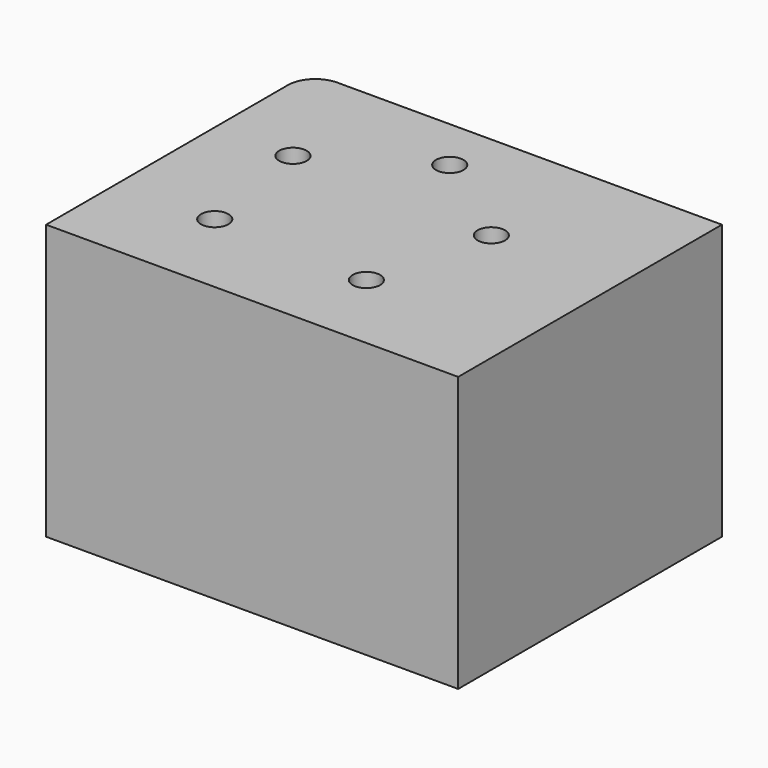
from build123d import *

# Parameters (mm, degrees)
F0_W     = 75
F0_H     = 60
F0_R     = 2.5
F1_DEPTH = 50
F2_R     = 5


with BuildPart() as f1:
    # F0 (on Top) → F1 (new body)
    with BuildSketch(Plane.XY):
        with Locations((-37.5, 30)):
            Rectangle(F0_W, F0_H)
        with Locations((-57.336632, 16.286449)):
            Circle(F0_R, mode=Mode.SUBTRACT)
        with Locations((-28.815843, 15.136253)):
            Circle(F0_R, mode=Mode.SUBTRACT)
        with Locations((-60.843214, 38.46839)):
            Circle(F0_R, mode=Mode.SUBTRACT)
        with Locations((-41.685883, 50.187232)):
            Circle(F0_R, mode=Mode.SUBTRACT)
        with Locations((-23.534432, 36.963789)):
            Circle(F0_R, mode=Mode.SUBTRACT)
    extrude(amount=F1_DEPTH)

    # F2
    f2_edges = [f1.edges().sort_by_distance(p)[0] for p in [
        (-75, 60, 25),
    ]]
    fillet(f2_edges, radius=F2_R)


solid = f1.part
